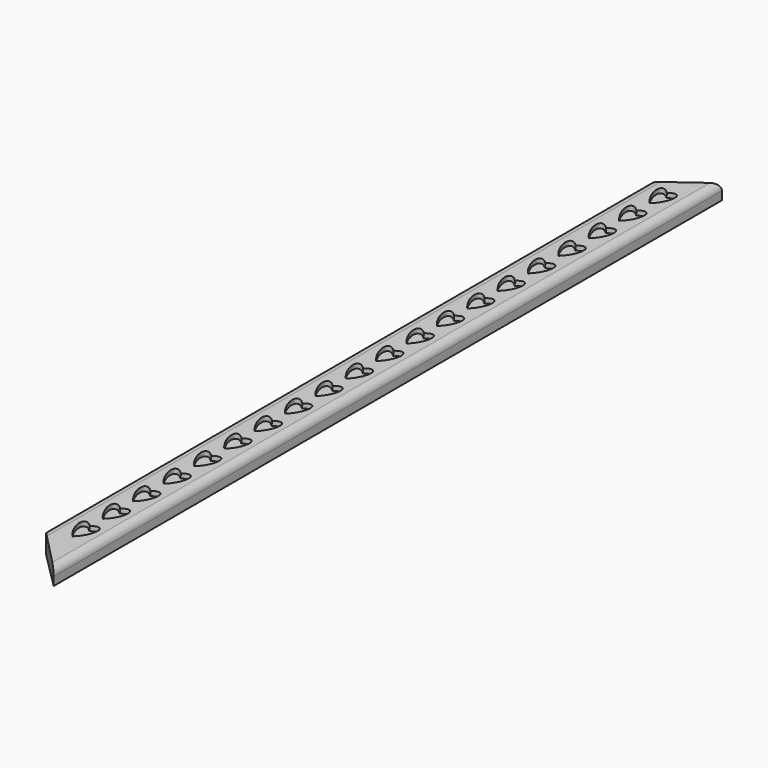
from build123d import *

# Parameters (mm, degrees)
F1_DEPTH = 12.7
F2_SIZE2 = 22.86
F2_SIZE  = 2.54
F3_R     = 5.08
F5_DEPTH = 3.175


with BuildPart() as f1:
    # F0 (on Top) → F1 (new body)
    with BuildSketch(Plane.XY):
        Polygon((12.7, -279.4), (12.7, 279.4), (-12.7, 254), (-12.7, -254), align=None)
    extrude(amount=F1_DEPTH)

    # F2
    f2_edges = [f1.edges().sort_by_distance(p)[0] for p in [
        (12.7, 0, 12.7),
    ]]
    f2_side = f1.faces().sort_by_distance((12.7, 0, 6.35))[0]
    chamfer(f2_edges, length=F2_SIZE, length2=F2_SIZE2, reference=f2_side)

    # F3
    f3_edges = [f1.edges().sort_by_distance(p)[0] for p in [
        (12.7, 0, 10.16),
    ]]
    fillet(f3_edges, radius=F3_R)

    # F4 (on face) → F5 (cut)
    with BuildSketch(Plane(origin=(1.27, 0, 11.43), x_dir=(0.9938837347, 0, -0.1104315261), z_dir=(0.1104315261, 0, 0.9938837347))):
        with BuildLine():
            add(Edge.make_bspline(
                [(-2.0688501096, 235.7681154536), (3.8019652825, 242.2786971784), (3.7246243146, 249.6415679861), (3.6472833468, 257.0044387939), (-2.2235320453, 250.4938570691)],
                knots=[4.0439898403, 4.0439898403, 4.0439898403, 5.614786167, 5.614786167, 7.1855824938, 7.1855824938, 7.1855824938], degree=2, weights=[1, 0.7071067812, 1, 0.7071067812, 1]))
            add(Edge.make_bspline(
                [(-2.2235320453, 250.4938570691), (-8.1711255926, 256.4894844666), (-8.0937846247, 249.1266136588), (-8.0164436569, 241.7637428511), (-2.0688501096, 235.7681154536)],
                knots=[5.403075214, 5.403075214, 5.403075214, 6.9738715408, 6.9738715408, 8.5446678676, 8.5446678676, 8.5446678676], degree=2, weights=[1, 0.7071067812, 1, 0.7071067812, 1]))
        make_face()
        with BuildLine():
            add(Edge.make_bspline(
                [(-2.2235320453, 225.0938570691), (-8.1711255926, 231.0894844666), (-8.0937846247, 223.7266136588), (-8.0164436569, 216.3637428511), (-2.0688501096, 210.3681154536)],
                knots=[5.403075214, 5.403075214, 5.403075214, 6.9738715408, 6.9738715408, 8.5446678676, 8.5446678676, 8.5446678676], degree=2, weights=[1, 0.7071067812, 1, 0.7071067812, 1]))
            add(Edge.make_bspline(
                [(-2.0688501096, 210.3681154536), (3.8019652825, 216.8786971784), (3.7246243146, 224.2415679861), (3.6472833468, 231.6044387939), (-2.2235320453, 225.0938570691)],
                knots=[4.0439898403, 4.0439898403, 4.0439898403, 5.614786167, 5.614786167, 7.1855824938, 7.1855824938, 7.1855824938], degree=2, weights=[1, 0.7071067812, 1, 0.7071067812, 1]))
        make_face()
        with BuildLine():
            add(Edge.make_bspline(
                [(-2.2235320453, 199.6938570691), (-8.1711255926, 205.6894844666), (-8.0937846247, 198.3266136588), (-8.0164436569, 190.9637428511), (-2.0688501096, 184.9681154536)],
                knots=[5.403075214, 5.403075214, 5.403075214, 6.9738715408, 6.9738715408, 8.5446678676, 8.5446678676, 8.5446678676], degree=2, weights=[1, 0.7071067812, 1, 0.7071067812, 1]))
            add(Edge.make_bspline(
                [(-2.0688501096, 184.9681154536), (3.8019652825, 191.4786971784), (3.7246243146, 198.8415679861), (3.6472833468, 206.2044387939), (-2.2235320453, 199.6938570691)],
                knots=[4.0439898403, 4.0439898403, 4.0439898403, 5.614786167, 5.614786167, 7.1855824938, 7.1855824938, 7.1855824938], degree=2, weights=[1, 0.7071067812, 1, 0.7071067812, 1]))
        make_face()
        with BuildLine():
            add(Edge.make_bspline(
                [(-2.2235320453, 174.2938570691), (-8.1711255926, 180.2894844666), (-8.0937846247, 172.9266136588), (-8.0164436569, 165.5637428511), (-2.0688501096, 159.5681154536)],
                knots=[5.403075214, 5.403075214, 5.403075214, 6.9738715408, 6.9738715408, 8.5446678676, 8.5446678676, 8.5446678676], degree=2, weights=[1, 0.7071067812, 1, 0.7071067812, 1]))
            add(Edge.make_bspline(
                [(-2.0688501096, 159.5681154536), (3.8019652825, 166.0786971784), (3.7246243146, 173.4415679861), (3.6472833468, 180.8044387939), (-2.2235320453, 174.2938570691)],
                knots=[4.0439898403, 4.0439898403, 4.0439898403, 5.614786167, 5.614786167, 7.1855824938, 7.1855824938, 7.1855824938], degree=2, weights=[1, 0.7071067812, 1, 0.7071067812, 1]))
        make_face()
        with BuildLine():
            add(Edge.make_bspline(
                [(-2.2235320453, 148.8938570691), (-8.1711255926, 154.8894844666), (-8.0937846247, 147.5266136588), (-8.0164436569, 140.1637428511), (-2.0688501096, 134.1681154536)],
                knots=[5.403075214, 5.403075214, 5.403075214, 6.9738715408, 6.9738715408, 8.5446678676, 8.5446678676, 8.5446678676], degree=2, weights=[1, 0.7071067812, 1, 0.7071067812, 1]))
            add(Edge.make_bspline(
                [(-2.0688501096, 134.1681154536), (3.8019652825, 140.6786971784), (3.7246243146, 148.0415679861), (3.6472833468, 155.4044387939), (-2.2235320453, 148.8938570691)],
                knots=[4.0439898403, 4.0439898403, 4.0439898403, 5.614786167, 5.614786167, 7.1855824938, 7.1855824938, 7.1855824938], degree=2, weights=[1, 0.7071067812, 1, 0.7071067812, 1]))
        make_face()
        with BuildLine():
            add(Edge.make_bspline(
                [(-2.2235320453, 123.4938570691), (-8.1711255926, 129.4894844666), (-8.0937846247, 122.1266136588), (-8.0164436569, 114.7637428511), (-2.0688501096, 108.7681154536)],
                knots=[5.403075214, 5.403075214, 5.403075214, 6.9738715408, 6.9738715408, 8.5446678676, 8.5446678676, 8.5446678676], degree=2, weights=[1, 0.7071067812, 1, 0.7071067812, 1]))
            add(Edge.make_bspline(
                [(-2.0688501096, 108.7681154536), (3.8019652825, 115.2786971784), (3.7246243146, 122.6415679861), (3.6472833468, 130.0044387939), (-2.2235320453, 123.4938570691)],
                knots=[4.0439898403, 4.0439898403, 4.0439898403, 5.614786167, 5.614786167, 7.1855824938, 7.1855824938, 7.1855824938], degree=2, weights=[1, 0.7071067812, 1, 0.7071067812, 1]))
        make_face()
        with BuildLine():
            add(Edge.make_bspline(
                [(-2.2235320453, 98.0938570691), (-8.1711255926, 104.0894844666), (-8.0937846247, 96.7266136588), (-8.0164436569, 89.3637428511), (-2.0688501096, 83.3681154536)],
                knots=[5.403075214, 5.403075214, 5.403075214, 6.9738715408, 6.9738715408, 8.5446678676, 8.5446678676, 8.5446678676], degree=2, weights=[1, 0.7071067812, 1, 0.7071067812, 1]))
            add(Edge.make_bspline(
                [(-2.0688501096, 83.3681154536), (3.8019652825, 89.8786971784), (3.7246243146, 97.2415679861), (3.6472833468, 104.6044387939), (-2.2235320453, 98.0938570691)],
                knots=[4.0439898403, 4.0439898403, 4.0439898403, 5.614786167, 5.614786167, 7.1855824938, 7.1855824938, 7.1855824938], degree=2, weights=[1, 0.7071067812, 1, 0.7071067812, 1]))
        make_face()
        with BuildLine():
            add(Edge.make_bspline(
                [(-2.2235320453, 72.6938570691), (-8.1711255926, 78.6894844666), (-8.0937846247, 71.3266136588), (-8.0164436569, 63.9637428511), (-2.0688501096, 57.9681154536)],
                knots=[5.403075214, 5.403075214, 5.403075214, 6.9738715408, 6.9738715408, 8.5446678676, 8.5446678676, 8.5446678676], degree=2, weights=[1, 0.7071067812, 1, 0.7071067812, 1]))
            add(Edge.make_bspline(
                [(-2.0688501096, 57.9681154536), (3.8019652825, 64.4786971784), (3.7246243146, 71.8415679861), (3.6472833468, 79.2044387939), (-2.2235320453, 72.6938570691)],
                knots=[4.0439898403, 4.0439898403, 4.0439898403, 5.614786167, 5.614786167, 7.1855824938, 7.1855824938, 7.1855824938], degree=2, weights=[1, 0.7071067812, 1, 0.7071067812, 1]))
        make_face()
        with BuildLine():
            add(Edge.make_bspline(
                [(-2.2235320453, 47.2938570691), (-8.1711255926, 53.2894844666), (-8.0937846247, 45.9266136588), (-8.0164436569, 38.5637428511), (-2.0688501096, 32.5681154536)],
                knots=[5.403075214, 5.403075214, 5.403075214, 6.9738715408, 6.9738715408, 8.5446678676, 8.5446678676, 8.5446678676], degree=2, weights=[1, 0.7071067812, 1, 0.7071067812, 1]))
            add(Edge.make_bspline(
                [(-2.0688501096, 32.5681154536), (3.8019652825, 39.0786971784), (3.7246243146, 46.4415679861), (3.6472833468, 53.8044387939), (-2.2235320453, 47.2938570691)],
                knots=[4.0439898403, 4.0439898403, 4.0439898403, 5.614786167, 5.614786167, 7.1855824938, 7.1855824938, 7.1855824938], degree=2, weights=[1, 0.7071067812, 1, 0.7071067812, 1]))
        make_face()
        with BuildLine():
            add(Edge.make_bspline(
                [(-2.2235320453, 21.8938570691), (-8.1711255926, 27.8894844666), (-8.0937846247, 20.5266136588), (-8.0164436569, 13.1637428511), (-2.0688501096, 7.1681154536)],
                knots=[5.403075214, 5.403075214, 5.403075214, 6.9738715408, 6.9738715408, 8.5446678676, 8.5446678676, 8.5446678676], degree=2, weights=[1, 0.7071067812, 1, 0.7071067812, 1]))
            add(Edge.make_bspline(
                [(-2.0688501096, 7.1681154536), (3.8019652825, 13.6786971784), (3.7246243146, 21.0415679861), (3.6472833468, 28.4044387939), (-2.2235320453, 21.8938570691)],
                knots=[4.0439898403, 4.0439898403, 4.0439898403, 5.614786167, 5.614786167, 7.1855824938, 7.1855824938, 7.1855824938], degree=2, weights=[1, 0.7071067812, 1, 0.7071067812, 1]))
        make_face()
        with BuildLine():
            add(Edge.make_bspline(
                [(-2.2235320453, -3.5061429309), (-8.1711255926, 2.4894844666), (-8.0937846247, -4.8733863412), (-8.0164436569, -12.2362571489), (-2.0688501096, -18.2318845464)],
                knots=[5.403075214, 5.403075214, 5.403075214, 6.9738715408, 6.9738715408, 8.5446678676, 8.5446678676, 8.5446678676], degree=2, weights=[1, 0.7071067812, 1, 0.7071067812, 1]))
            add(Edge.make_bspline(
                [(-2.0688501096, -18.2318845464), (3.8019652825, -11.7213028216), (3.7246243146, -4.3584320139), (3.6472833468, 3.0044387939), (-2.2235320453, -3.5061429309)],
                knots=[4.0439898403, 4.0439898403, 4.0439898403, 5.614786167, 5.614786167, 7.1855824938, 7.1855824938, 7.1855824938], degree=2, weights=[1, 0.7071067812, 1, 0.7071067812, 1]))
        make_face()
        with BuildLine():
            add(Edge.make_bspline(
                [(-2.2235320453, -28.9061429309), (-8.1711255926, -22.9105155334), (-8.0937846247, -30.2733863412), (-8.0164436569, -37.6362571489), (-2.0688501096, -43.6318845464)],
                knots=[5.403075214, 5.403075214, 5.403075214, 6.9738715408, 6.9738715408, 8.5446678676, 8.5446678676, 8.5446678676], degree=2, weights=[1, 0.7071067812, 1, 0.7071067812, 1]))
            add(Edge.make_bspline(
                [(-2.0688501096, -43.6318845464), (3.8019652825, -37.1213028216), (3.7246243146, -29.7584320139), (3.6472833468, -22.3955612061), (-2.2235320453, -28.9061429309)],
                knots=[4.0439898403, 4.0439898403, 4.0439898403, 5.614786167, 5.614786167, 7.1855824938, 7.1855824938, 7.1855824938], degree=2, weights=[1, 0.7071067812, 1, 0.7071067812, 1]))
        make_face()
        with BuildLine():
            add(Edge.make_bspline(
                [(-2.2235320453, -54.3061429309), (-8.1711255926, -48.3105155334), (-8.0937846247, -55.6733863412), (-8.0164436569, -63.0362571489), (-2.0688501096, -69.0318845464)],
                knots=[5.403075214, 5.403075214, 5.403075214, 6.9738715408, 6.9738715408, 8.5446678676, 8.5446678676, 8.5446678676], degree=2, weights=[1, 0.7071067812, 1, 0.7071067812, 1]))
            add(Edge.make_bspline(
                [(-2.0688501096, -69.0318845464), (3.8019652825, -62.5213028216), (3.7246243146, -55.1584320139), (3.6472833468, -47.7955612061), (-2.2235320453, -54.3061429309)],
                knots=[4.0439898403, 4.0439898403, 4.0439898403, 5.614786167, 5.614786167, 7.1855824938, 7.1855824938, 7.1855824938], degree=2, weights=[1, 0.7071067812, 1, 0.7071067812, 1]))
        make_face()
        with BuildLine():
            add(Edge.make_bspline(
                [(-2.2235320453, -79.7061429309), (-8.1711255926, -73.7105155334), (-8.0937846247, -81.0733863412), (-8.0164436569, -88.4362571489), (-2.0688501096, -94.4318845464)],
                knots=[5.403075214, 5.403075214, 5.403075214, 6.9738715408, 6.9738715408, 8.5446678676, 8.5446678676, 8.5446678676], degree=2, weights=[1, 0.7071067812, 1, 0.7071067812, 1]))
            add(Edge.make_bspline(
                [(-2.0688501096, -94.4318845464), (3.8019652825, -87.9213028216), (3.7246243146, -80.5584320139), (3.6472833468, -73.1955612061), (-2.2235320453, -79.7061429309)],
                knots=[4.0439898403, 4.0439898403, 4.0439898403, 5.614786167, 5.614786167, 7.1855824938, 7.1855824938, 7.1855824938], degree=2, weights=[1, 0.7071067812, 1, 0.7071067812, 1]))
        make_face()
        with BuildLine():
            add(Edge.make_bspline(
                [(-2.2235320453, -105.1061429309), (-8.1711255926, -99.1105155334), (-8.0937846247, -106.4733863412), (-8.0164436569, -113.8362571489), (-2.0688501096, -119.8318845464)],
                knots=[5.403075214, 5.403075214, 5.403075214, 6.9738715408, 6.9738715408, 8.5446678676, 8.5446678676, 8.5446678676], degree=2, weights=[1, 0.7071067812, 1, 0.7071067812, 1]))
            add(Edge.make_bspline(
                [(-2.0688501096, -119.8318845464), (3.8019652825, -113.3213028216), (3.7246243146, -105.9584320139), (3.6472833468, -98.5955612061), (-2.2235320453, -105.1061429309)],
                knots=[4.0439898403, 4.0439898403, 4.0439898403, 5.614786167, 5.614786167, 7.1855824938, 7.1855824938, 7.1855824938], degree=2, weights=[1, 0.7071067812, 1, 0.7071067812, 1]))
        make_face()
        with BuildLine():
            add(Edge.make_bspline(
                [(-2.2235320453, -130.5061429309), (-8.1711255926, -124.5105155334), (-8.0937846247, -131.8733863412), (-8.0164436569, -139.2362571489), (-2.0688501096, -145.2318845464)],
                knots=[5.403075214, 5.403075214, 5.403075214, 6.9738715408, 6.9738715408, 8.5446678676, 8.5446678676, 8.5446678676], degree=2, weights=[1, 0.7071067812, 1, 0.7071067812, 1]))
            add(Edge.make_bspline(
                [(-2.0688501096, -145.2318845464), (3.8019652825, -138.7213028216), (3.7246243146, -131.3584320139), (3.6472833468, -123.9955612061), (-2.2235320453, -130.5061429309)],
                knots=[4.0439898403, 4.0439898403, 4.0439898403, 5.614786167, 5.614786167, 7.1855824938, 7.1855824938, 7.1855824938], degree=2, weights=[1, 0.7071067812, 1, 0.7071067812, 1]))
        make_face()
        with BuildLine():
            add(Edge.make_bspline(
                [(-2.2235320453, -155.9061429309), (-8.1711255926, -149.9105155334), (-8.0937846247, -157.2733863412), (-8.0164436569, -164.6362571489), (-2.0688501096, -170.6318845464)],
                knots=[5.403075214, 5.403075214, 5.403075214, 6.9738715408, 6.9738715408, 8.5446678676, 8.5446678676, 8.5446678676], degree=2, weights=[1, 0.7071067812, 1, 0.7071067812, 1]))
            add(Edge.make_bspline(
                [(-2.0688501096, -170.6318845464), (3.8019652825, -164.1213028216), (3.7246243146, -156.7584320139), (3.6472833468, -149.3955612061), (-2.2235320453, -155.9061429309)],
                knots=[4.0439898403, 4.0439898403, 4.0439898403, 5.614786167, 5.614786167, 7.1855824938, 7.1855824938, 7.1855824938], degree=2, weights=[1, 0.7071067812, 1, 0.7071067812, 1]))
        make_face()
        with BuildLine():
            add(Edge.make_bspline(
                [(-2.2235320453, -181.3061429309), (-8.1711255926, -175.3105155334), (-8.0937846247, -182.6733863412), (-8.0164436569, -190.0362571489), (-2.0688501096, -196.0318845464)],
                knots=[5.403075214, 5.403075214, 5.403075214, 6.9738715408, 6.9738715408, 8.5446678676, 8.5446678676, 8.5446678676], degree=2, weights=[1, 0.7071067812, 1, 0.7071067812, 1]))
            add(Edge.make_bspline(
                [(-2.0688501096, -196.0318845464), (3.8019652825, -189.5213028216), (3.7246243146, -182.1584320139), (3.6472833468, -174.7955612061), (-2.2235320453, -181.3061429309)],
                knots=[4.0439898403, 4.0439898403, 4.0439898403, 5.614786167, 5.614786167, 7.1855824938, 7.1855824938, 7.1855824938], degree=2, weights=[1, 0.7071067812, 1, 0.7071067812, 1]))
        make_face()
        with BuildLine():
            add(Edge.make_bspline(
                [(-2.2235320453, -206.7061429309), (-8.1711255926, -200.7105155334), (-8.0937846247, -208.0733863412), (-8.0164436569, -215.4362571489), (-2.0688501096, -221.4318845464)],
                knots=[5.403075214, 5.403075214, 5.403075214, 6.9738715408, 6.9738715408, 8.5446678676, 8.5446678676, 8.5446678676], degree=2, weights=[1, 0.7071067812, 1, 0.7071067812, 1]))
            add(Edge.make_bspline(
                [(-2.0688501096, -221.4318845464), (3.8019652825, -214.9213028216), (3.7246243146, -207.5584320139), (3.6472833468, -200.1955612061), (-2.2235320453, -206.7061429309)],
                knots=[4.0439898403, 4.0439898403, 4.0439898403, 5.614786167, 5.614786167, 7.1855824938, 7.1855824938, 7.1855824938], degree=2, weights=[1, 0.7071067812, 1, 0.7071067812, 1]))
        make_face()
        with BuildLine():
            add(Edge.make_bspline(
                [(-2.2235320453, -232.1061429309), (-8.1711255926, -226.1105155334), (-8.0937846247, -233.4733863412), (-8.0164436569, -240.8362571489), (-2.0688501096, -246.8318845464)],
                knots=[5.403075214, 5.403075214, 5.403075214, 6.9738715408, 6.9738715408, 8.5446678676, 8.5446678676, 8.5446678676], degree=2, weights=[1, 0.7071067812, 1, 0.7071067812, 1]))
            add(Edge.make_bspline(
                [(-2.0688501096, -246.8318845464), (3.8019652825, -240.3213028216), (3.7246243146, -232.9584320139), (3.6472833468, -225.5955612061), (-2.2235320453, -232.1061429309)],
                knots=[4.0439898403, 4.0439898403, 4.0439898403, 5.614786167, 5.614786167, 7.1855824938, 7.1855824938, 7.1855824938], degree=2, weights=[1, 0.7071067812, 1, 0.7071067812, 1]))
        make_face()
    extrude(amount=-F5_DEPTH, mode=Mode.SUBTRACT)


solid = f1.part
